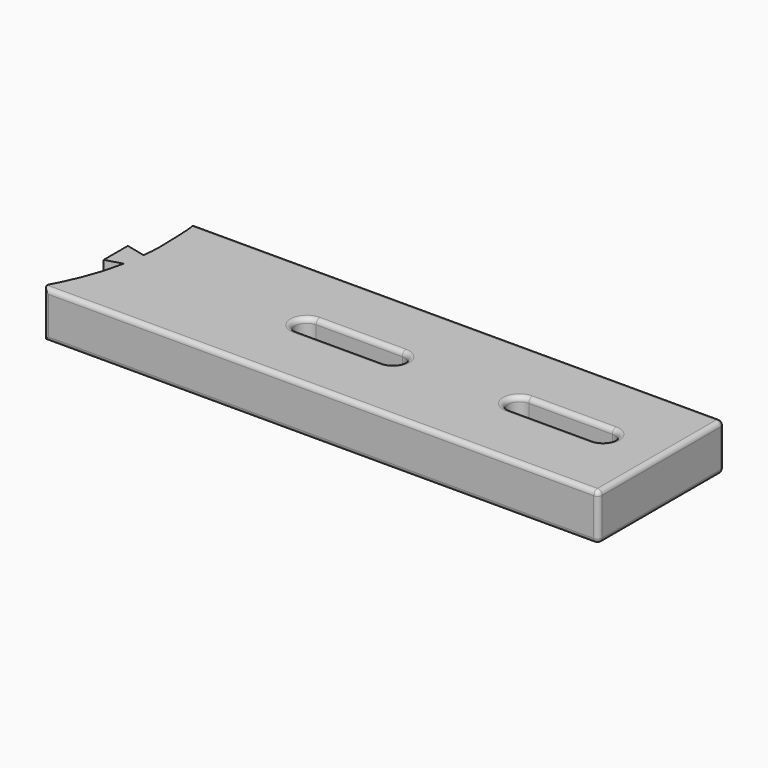
from build123d import *

# Parameters (mm, degrees)
F1_DEPTH = 6.35
F2_R     = 0.635


with BuildPart() as f1:
    # F0 (on Top) → F1 (new body)
    with BuildSketch(Plane.XY):
        with BuildLine():
            add(Edge.make_bspline(
                [(-38.9891895168, -10.6982229425), (-38.3465920283, -10.3074894534), (-37.8422569059, -9.6253746617), (-35.8621994283, -5.3779231667), (-35.1209965892, -2.4292102932), (-34.8568920019, -1.175043316)],
                knots=[0, 0, 0, 0, 0.2324380402, 0.6162190201, 1, 1, 1, 1], degree=3))
            Line((-38.9891895168, -10.6982229425), (37.2108104832, -10.6982229425))
            Line((37.2108104832, -10.6982229425), (37.2108104832, 10.6646132435))
            Line((37.2108104832, 10.6646132435), (-34.7275388503, 10.6646132435))
            add(Edge.make_bspline(
                [(-34.7275388503, 10.6646132435), (-34.6275926151, 10.4093259266), (-34.4118404297, 9.6572574945), (-34.3207970154, 6.7101610318), (-34.149913299, 3.9386656499), (-34.416114208, 1.6737423804)],
                knots=[0, 0, 0, 0, 0.1984555205, 0.5308860218, 1, 1, 1, 1], degree=3))
            Line((-34.416114208, 1.6737423804), (-37.0515519649, 2.308008018))
            Line((-37.0515519649, 2.308008018), (-37.0515519649, -1.7913987552))
            Line((-37.0515519649, -1.7913987552), (-34.8568920019, -1.175043316))
        make_face()
        with BuildLine():
            Line((0.7745096379, -1.6043048495), (-10.9163193113, -1.6043048495))
            ThreePointArc((-10.9163193113, -1.6043048495), (-12.5038193113, -0.0168048495), (-10.9163193113, 1.5706951505))
            Line((-10.9163193113, 1.5706951505), (0.7745096379, 1.5706951505))
            ThreePointArc((0.7745096379, 1.5706951505), (2.3620096379, -0.0168048495), (0.7745096379, -1.6043048495))
        make_face(mode=Mode.SUBTRACT)
        with BuildLine():
            Line((29.2821446352, -1.6043048495), (17.9468611174, -1.6043048495))
            ThreePointArc((17.9468611174, -1.6043048495), (16.3593611174, -0.0168048495), (17.9468611174, 1.5706951505))
            Line((17.9468611174, 1.5706951505), (29.2821446352, 1.5706951505))
            ThreePointArc((29.2821446352, 1.5706951505), (30.8696446352, -0.0168048495), (29.2821446352, -1.6043048495))
        make_face(mode=Mode.SUBTRACT)
    extrude(amount=F1_DEPTH)

    # F2
    f2_edges = [f1.edges().sort_by_distance(p)[0] for p in [
        (37.21081, -10.698223, 3.175),
        (-38.98919, -10.698223, 3.175),
        (-0.88919, -10.698223, 0),
        (-0.88919, -10.698223, 6.35),
        (37.21081, -0.016805, 0),
        (37.21081, 10.664613, 3.175),
        (37.21081, -0.016805, 6.35),
        (1.241636, 10.664613, 6.35),
        (1.241636, 10.664613, 0),
        (-10.916319, 1.570695, 3.175),
        (0.77451, 1.570695, 3.175),
        (-5.070905, 1.570695, 0),
        (-5.070905, 1.570695, 6.35),
        (17.946861, 1.570695, 3.175),
        (29.282145, 1.570695, 3.175),
        (23.614503, 1.570695, 0),
        (23.614503, 1.570695, 6.35),
    ]]
    fillet(f2_edges, radius=F2_R)


solid = f1.part
